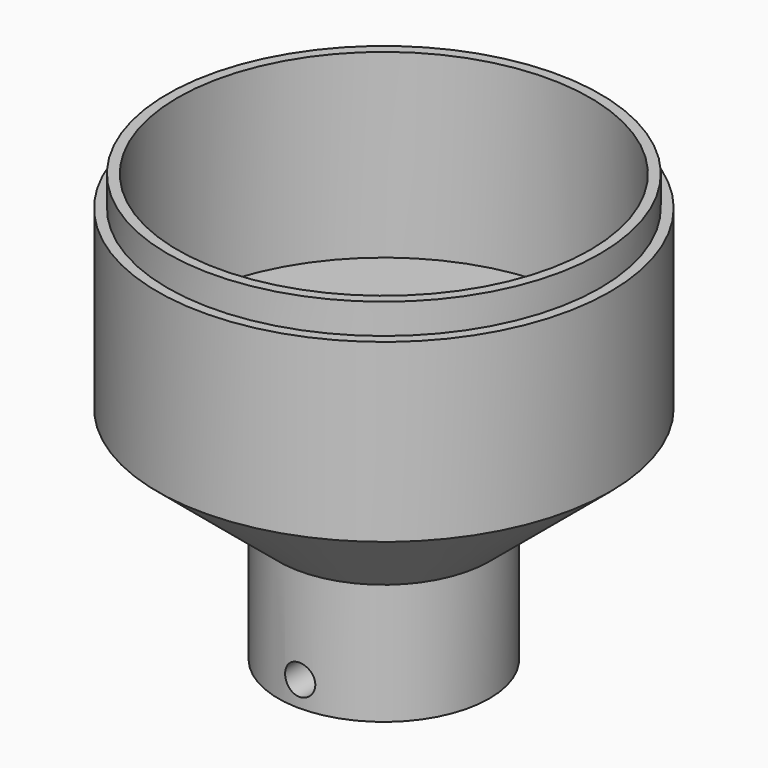
from build123d import *

# Parameters (mm, degrees)
F2_R     = 3
F3_DEPTH = 25


with BuildPart() as f1:
    # F0 (on Front) → F1 (revolve)
    with BuildSketch(Plane.XZ):
        Polygon((14, -53.602649), (21, -53.602649), (21, -29.602649), (45, -9.602649), (45, -4.602649), (45, 25.397351), (43, 25.397351), (43, 31.397351), (41, 31.397351), (41, -4.602649), (0, -4.602649), (0, -9.602649), (0, -29.602649), (0, -36.602649), (14, -36.602649), align=None)
    revolve(axis=Axis((0, 0, -29.606792), (0, 0, 1)))

    # F2 (on Front) → F3 (cut, symmetric)
    with BuildSketch(Plane.XZ):
        with Locations((0, -48.602649)):
            Circle(F2_R)
    extrude(amount=F3_DEPTH, both=True, mode=Mode.SUBTRACT)


solid = f1.part
